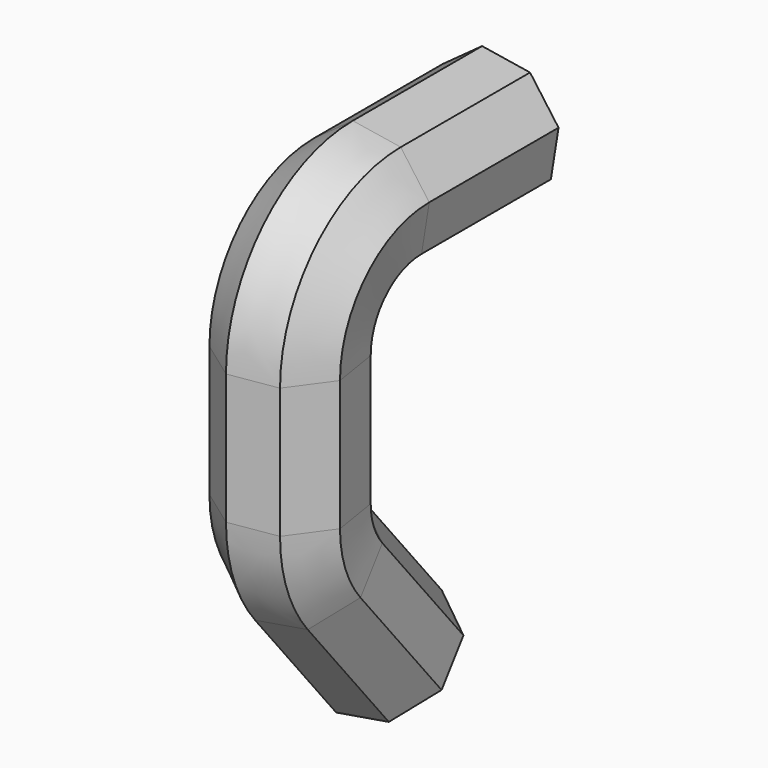
from build123d import *


with BuildPart() as f2:
    # F2: sweep along a path in F1
    with BuildLine(Plane.YZ) as f2_path:
        Line((0, 0), (-106.027229, 0))
        ThreePointArc((-106.027229, 0), (-150.92851, -18.598719), (-169.527229, -63.5))
        Line((-169.527229, -63.5), (-169.527229, -149.079217))
        ThreePointArc((-169.527229, -149.079217), (-165.771549, -170.593545), (-154.948762, -189.562962))
        Line((-154.948762, -189.562962), (-88.474994, -269.891465))
    # F0 (on Front) → F2 (sweep)
    with BuildSketch(Plane.XZ):
        Polygon((-35.452579, 21.786269), (-40.473978, -9.663541), (-21.786269, -35.452579), (9.663541, -40.473978), (35.452579, -21.786269), (40.473978, 9.663541), (21.786269, 35.452579), (-9.663541, 40.473978), align=None)
    sweep(path=f2_path.line)


solid = f2.part
